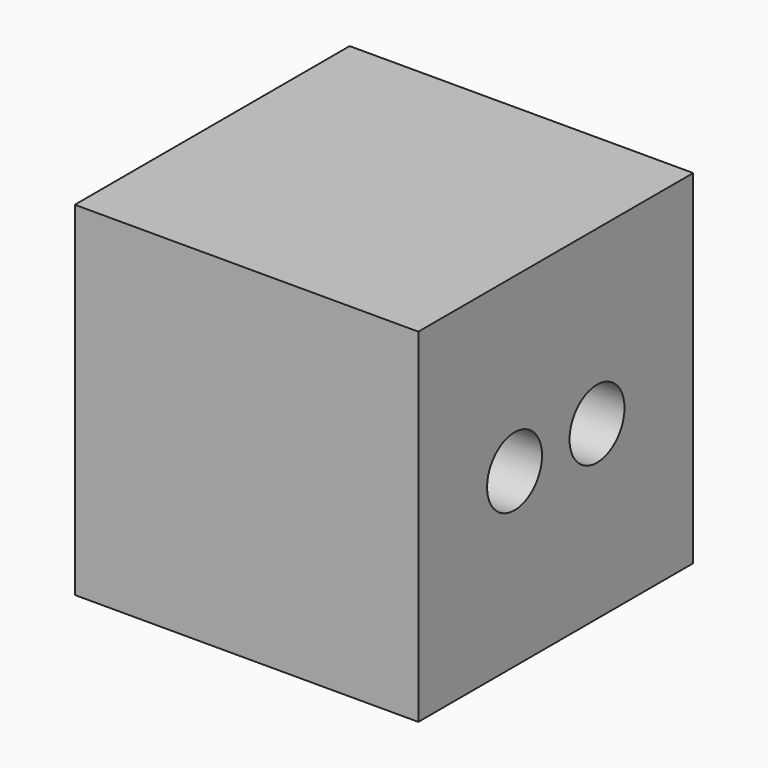
from build123d import *

# Parameters (mm, degrees)
CYLINDER003_R           = 2
CYLINDER003_DEPTH       = 30
CYLINDER003_PITCH_ANGLE = 90
CYLINDER002_R           = 2
CYLINDER002_DEPTH       = 30
CYLINDER002_PITCH_ANGLE = 90
BOX005_W                = 20
BOX005_H                = 20
BOX005_DEPTH            = 20


with BuildPart() as cylinder001:
    # Cylinder003 → Cylinder003 (new body)
    with BuildSketch(Plane.XY):
        Circle(CYLINDER003_R)
    extrude(amount=CYLINDER003_DEPTH)


with BuildPart() as cylinder001_1:
    # Cylinder003 pitch: moved
    add(cylinder001.part.rotate(Axis((0, 0, 0), (0, 1, 0)), CYLINDER003_PITCH_ANGLE))


with BuildPart() as cylinder001_2:
    # Cylinder003 placement: moved
    add(cylinder001_1.part.moved(Location((490, 313, 220))))


with BuildPart() as cylinder:
    # Cylinder002 → Cylinder002 (new body)
    with BuildSketch(Plane.XY):
        Circle(CYLINDER002_R)
    extrude(amount=CYLINDER002_DEPTH)


with BuildPart() as cylinder_1:
    # Cylinder002 pitch: moved
    add(cylinder.part.rotate(Axis((0, 0, 0), (0, 1, 0)), CYLINDER002_PITCH_ANGLE))


with BuildPart() as cylinder_2:
    # Cylinder002 placement: moved
    add(cylinder_1.part.moved(Location((490, 307, 220))))


with BuildPart() as plug001:
    # Box005 → Box005 (new body)
    with BuildSketch(Plane(origin=(485, 300, 210), x_dir=(1, 0, 0), z_dir=(0, 0, 1))):
        with Locations((10, 10)):
            Rectangle(BOX005_W, BOX005_H)
    extrude(amount=BOX005_DEPTH)

    # Cut001: cut Cylinder
    add(cylinder_2.part, mode=Mode.SUBTRACT)

    # Cut002: cut Cylinder001
    add(cylinder001_2.part, mode=Mode.SUBTRACT)


solid = plug001.part
